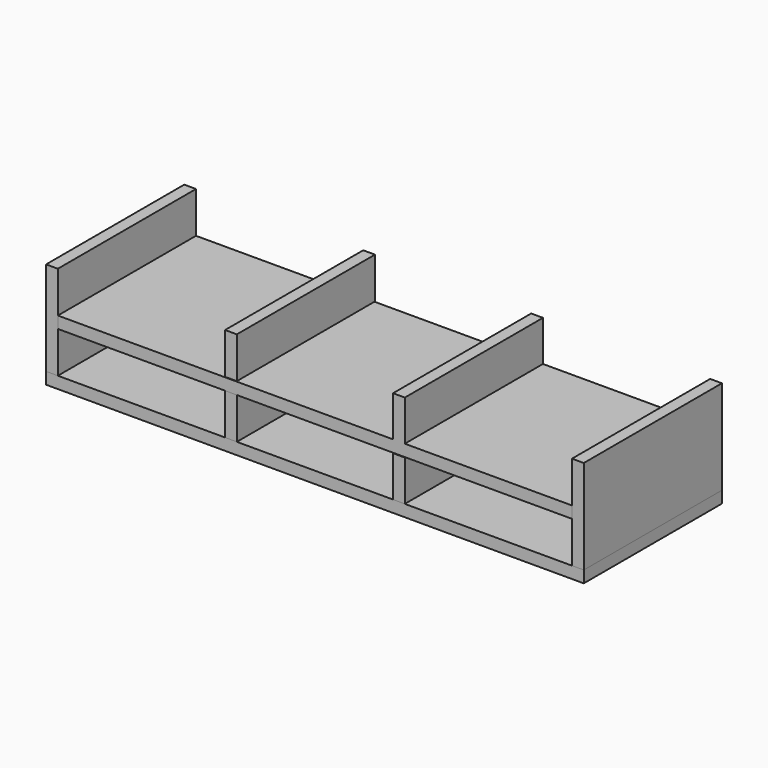
from build123d import *

# Parameters (mm, degrees)
F0_W      = 685
F0_H      = 220
F1_DEPTH  = 15
F2_W      = 15
F2_H      = 220
F3_DEPTH  = 120
F4_W      = 15
F4_H      = 220
F5_DEPTH  = 120
F6_W      = 220
F6_H      = 15
F7_DEPTH  = 655
F8_W      = 15
F8_H      = 51.917144
F8_H_2    = 52.500003
F9_DEPTH  = 220
F10_W     = 15
F10_H     = 51.744535
F10_H_2   = 52.500002
F11_DEPTH = 220


with BuildPart() as f1:
    # F0 (on Top) → F1 (new body)
    with BuildSketch(Plane.XY):
        with Locations((11.202171, -130.000433)):
            Rectangle(F0_W, F0_H)
    extrude(amount=F1_DEPTH)


with BuildPart() as f3:
    # F2 (on face) → F3 (new body)
    with BuildSketch(Plane.XY.offset(15)):
        with Locations((-323.797829, -130.000433)):
            Rectangle(F2_W, F2_H)
    extrude(amount=F3_DEPTH)


with BuildPart() as f5:
    # F4 (on face) → F5 (new body)
    with BuildSketch(Plane.XY.offset(15)):
        with Locations((346.202171, -130.000433)):
            Rectangle(F4_W, F4_H)
    extrude(amount=F5_DEPTH)


with BuildPart() as f7:
    # F6 (on face) → F7 (new body, through all)
    with BuildSketch(Plane.YZ.offset(-316.297829)):
        with Locations((-130.000433, 75)):
            Rectangle(F6_W, F6_H)
    extrude(amount=F7_DEPTH)

    # F10 (on face) → F11 (join)
    with BuildSketch(Plane(origin=(0, -20.000433, 0), x_dir=(-1, 0, 0), z_dir=(0, 1, 0))):
        with Locations((-118.202171, 108.372267)):
            Rectangle(F10_W, F10_H)
        with Locations((95.797829, 109.286707)):
            Rectangle(F10_W, F10_H_2)
    extrude(amount=-F11_DEPTH)


with BuildPart() as f9:
    # F8 (on face) → F9 (new body)
    with BuildSketch(Plane(origin=(0, -20.000433, 0), x_dir=(-1, 0, 0), z_dir=(0, 1, 0))):
        with Locations((-118.202171, 40.958572)):
            Rectangle(F8_W, F8_H)
        with Locations((95.797829, 41.250001)):
            Rectangle(F8_W, F8_H_2)
    extrude(amount=-F9_DEPTH)


solid = Compound([f1.part, f3.part, f5.part, f7.part, f9.part])
